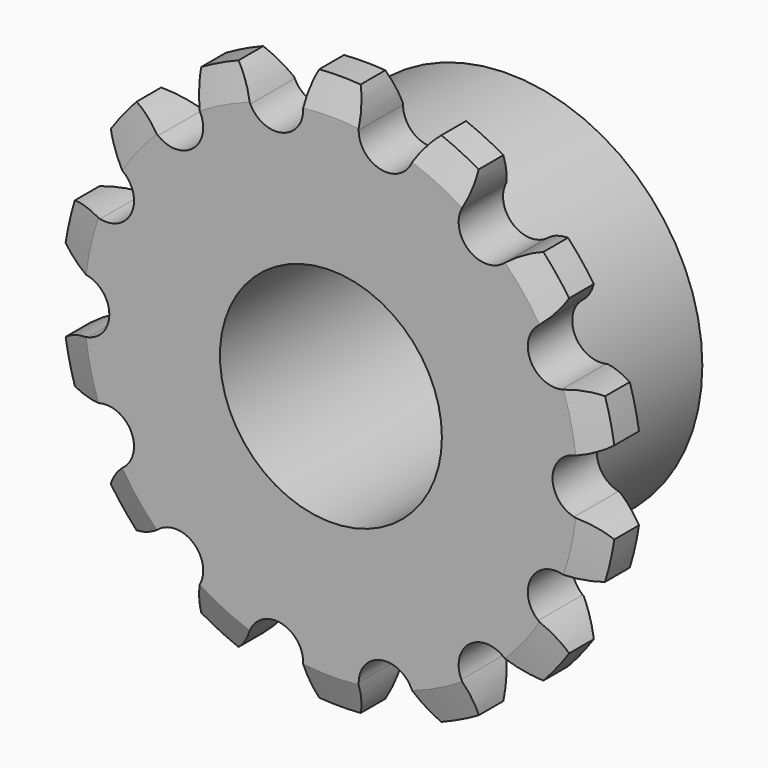
from build123d import *

# Parameters (mm, degrees)
F0_R        = 11.0933204836
F0_R_2      = 6.35
F1_DEPTH    = 3.175
F2_DEPTH    = 9.525
F3_SIZE2    = 1.7951595028
F3_SIZE     = 0.762
F3_2_SIZE2  = 1.7951595028
F3_2_SIZE   = 0.762
F3_3_SIZE2  = 1.7951595028
F3_3_SIZE   = 0.762
F3_4_SIZE2  = 1.7951595028
F3_4_SIZE   = 0.762
F3_5_SIZE2  = 1.7951595028
F3_5_SIZE   = 0.762
F3_6_SIZE2  = 1.7951595028
F3_6_SIZE   = 0.762
F3_7_SIZE2  = 1.7951595028
F3_7_SIZE   = 0.762
F3_8_SIZE2  = 1.7951595028
F3_8_SIZE   = 0.762
F3_9_SIZE2  = 1.7951595028
F3_9_SIZE   = 0.762
F3_10_SIZE2 = 1.7951595028
F3_10_SIZE  = 0.762
F3_11_SIZE2 = 1.7951595028
F3_11_SIZE  = 0.762
F3_12_SIZE2 = 1.7951595028
F3_12_SIZE  = 0.762
F3_13_SIZE2 = 1.7951595028
F3_13_SIZE  = 0.762
F3_14_SIZE2 = 1.7951595028
F3_14_SIZE  = 0.762
F4_SIZE2    = 0.6471390765
F4_SIZE     = 1.778


with BuildPart() as f1:
    # F0 (on Front) → F1 (new body)
    with BuildSketch(Plane.XZ):
        with BuildLine():
            ThreePointArc((4.6052880778, 13.2217934636), (2.8217480173, 12.3628858388), (1.5875, 13.9105838994))
            ThreePointArc((1.5875, 13.9105838994), (1.485331937, 14.8917630302), (1.1832112917, 15.8308444512))
            ThreePointArc((1.1832112917, 15.8308444512), (0, 15.875), (-1.1832112917, 15.8308444512))
            ThreePointArc((-1.1832112917, 15.8308444512), (-1.485331937, 14.8917630302), (-1.5875, 13.9105838994))
            ThreePointArc((-1.5875, 13.9105838994), (-2.8217480173, 12.3628858388), (-4.6052880778, 13.2217934636))
            ThreePointArc((-4.6052880778, 13.2217934636), (-5.1230559918, 14.061476253), (-5.8027094459, 14.7764741426))
            ThreePointArc((-5.8027094459, 14.7764741426), (-6.8879043585, 14.302880778), (-7.9347825219, 13.7497218638))
            ThreePointArc((-7.9347825219, 13.7497218638), (-7.7995316594, 12.7725535037), (-7.4658642334, 11.8442125919))
            ThreePointArc((-7.4658642334, 11.8442125919), (-7.3484542506, 11.5086741387), (-7.3086523112, 11.155422156))
            ThreePointArc((-7.3086523112, 11.155422156), (-8.2073618753, 9.7251340782), (-9.8859423716, 9.9142646776))
            ThreePointArc((-9.8859423716, 9.9142646776), (-10.7167598513, 10.4461416513), (-11.6393324122, 10.7954419084))
            ThreePointArc((-11.6393324122, 10.7954419084), (-12.4115747842, 9.8979006045), (-13.1147727599, 8.9452982319))
            ThreePointArc((-13.1147727599, 8.9452982319), (-12.5689384816, 8.1235831107), (-11.8655224925, 7.4319497208))
            ThreePointArc((-11.8655224925, 7.4319497208), (-11.4250244752, 6.8795826782), (-11.267812553, 6.1907922424))
            ThreePointArc((-11.267812553, 6.1907922424), (-11.8655224925, 4.9496347639), (-13.2085645356, 4.6430941818))
            ThreePointArc((-13.2085645356, 4.6430941818), (-14.1878779899, 4.761820582), (-15.1706428472, 4.6762400069))
            ThreePointArc((-15.1706428472, 4.6762400069), (-15.4769806059, 3.5325198266), (-15.6972214106, 2.3691485783))
            ThreePointArc((-15.6972214106, 2.3691485783), (-14.8489128896, 1.8656374535), (-13.915068501, 1.5476980606))
            ThreePointArc((-13.915068501, 1.5476980606), (-13.0271630052, 0.9897900605), (-12.6808204836, 0))
            ThreePointArc((-12.6808204836, 0), (-13.0271630052, -0.9897900605), (-13.915068501, -1.5476980606))
            ThreePointArc((-13.915068501, -1.5476980606), (-14.8489128896, -1.8656374535), (-15.6972214106, -2.3691485783))
            ThreePointArc((-15.6972214106, -2.3691485783), (-15.4769806059, -3.5325198266), (-15.1706428472, -4.6762400069))
            ThreePointArc((-15.1706428472, -4.6762400069), (-14.1878779899, -4.761820582), (-13.2085645356, -4.6430941818))
            ThreePointArc((-13.2085645356, -4.6430941818), (-11.8655224925, -4.9496347639), (-11.267812553, -6.1907922424))
            ThreePointArc((-11.267812553, -6.1907922424), (-11.4058254842, -6.8382051613), (-11.7958673405, -7.3730494444))
            ThreePointArc((-11.7958673405, -7.3730494444), (-11.8655224925, -7.4319497208), (-11.9384457455, -7.4867519282))
            ThreePointArc((-11.9384457455, -7.4867519282), (-12.5999033157, -8.1559356871), (-13.1170026323, -8.9420281225))
            ThreePointArc((-13.1170026323, -8.9420281225), (-12.4128085812, -9.8963532741), (-11.6393324122, -10.7954419084))
            ThreePointArc((-11.6393324122, -10.7954419084), (-10.7167598513, -10.4461416513), (-9.8859423716, -9.9142646776))
            ThreePointArc((-9.8859423716, -9.9142646776), (-8.2073618753, -9.7251340782), (-7.3086523112, -11.155422156))
            ThreePointArc((-7.3086523112, -11.155422156), (-7.3484542506, -11.5086741387), (-7.4658642334, -11.8442125919))
            ThreePointArc((-7.4658642334, -11.8442125919), (-7.7995316594, -12.7725535037), (-7.9347825219, -13.7497218638))
            ThreePointArc((-7.9347825219, -13.7497218638), (-6.8879043585, -14.302880778), (-5.8027094459, -14.7764741426))
            ThreePointArc((-5.8027094459, -14.7764741426), (-5.1230559918, -14.061476253), (-4.6052880778, -13.2217934636))
            ThreePointArc((-4.6052880778, -13.2217934636), (-2.8217480173, -12.3628858388), (-1.5875, -13.9105838994))
            ThreePointArc((-1.5875, -13.9105838994), (-1.485331937, -14.8917630302), (-1.1832112917, -15.8308444512))
            ThreePointArc((-1.1832112917, -15.8308444512), (0, -15.875), (1.1832112917, -15.8308444512))
            ThreePointArc((1.1832112917, -15.8308444512), (1.485331937, -14.8917630302), (1.5875, -13.9105838994))
            ThreePointArc((1.5875, -13.9105838994), (2.8217480173, -12.3628858388), (4.6052880778, -13.2217934636))
            ThreePointArc((4.6052880778, -13.2217934636), (5.1230559918, -14.061476253), (5.8027094459, -14.7764741426))
            ThreePointArc((5.8027094459, -14.7764741426), (6.8879043585, -14.302880778), (7.9347825219, -13.7497218638))
            ThreePointArc((7.9347825219, -13.7497218638), (7.7995316594, -12.7725535037), (7.4658642334, -11.8442125919))
            ThreePointArc((7.4658642334, -11.8442125919), (7.9063622507, -9.9142646776), (9.8859423716, -9.9142646776))
            ThreePointArc((9.8859423716, -9.9142646776), (10.7167598513, -10.4461416513), (11.6393324122, -10.7954419084))
            ThreePointArc((11.6393324122, -10.7954419084), (12.4115747842, -9.8979006045), (13.1147727599, -8.9452982319))
            ThreePointArc((13.1147727599, -8.9452982319), (12.5689384816, -8.1235831107), (11.8655224925, -7.4319497208))
            ThreePointArc((11.8655224925, -7.4319497208), (11.4250244752, -5.5020018065), (13.2085645356, -4.6430941818))
            ThreePointArc((13.2085645356, -4.6430941818), (14.1878779899, -4.761820582), (15.1706428472, -4.6762400069))
            ThreePointArc((15.1706428472, -4.6762400069), (15.4769806059, -3.5325198266), (15.6972214106, -2.3691485783))
            ThreePointArc((15.6972214106, -2.3691485783), (14.8489128896, -1.8656374535), (13.915068501, -1.5476980606))
            ThreePointArc((13.915068501, -1.5476980606), (12.6808204836, 0), (13.915068501, 1.5476980606))
            ThreePointArc((13.915068501, 1.5476980606), (14.8489128896, 1.8656374535), (15.6972214106, 2.3691485783))
            ThreePointArc((15.6972214106, 2.3691485783), (15.4769806059, 3.5325198266), (15.1706428472, 4.6762400069))
            ThreePointArc((15.1706428472, 4.6762400069), (14.1878779899, 4.761820582), (13.2085645356, 4.6430941818))
            ThreePointArc((13.2085645356, 4.6430941818), (11.4250244752, 5.5020018065), (11.8655224925, 7.4319497208))
            ThreePointArc((11.8655224925, 7.4319497208), (12.5689384816, 8.1235831107), (13.1147727599, 8.9452982319))
            ThreePointArc((13.1147727599, 8.9452982319), (12.4115747842, 9.8979006045), (11.6393324122, 10.7954419084))
            ThreePointArc((11.6393324122, 10.7954419084), (10.7167598513, 10.4461416513), (9.8859423716, 9.9142646776))
            ThreePointArc((9.8859423716, 9.9142646776), (7.9063622507, 9.9142646776), (7.4658642334, 11.8442125919))
            ThreePointArc((7.4658642334, 11.8442125919), (7.7995316594, 12.7725535037), (7.9347825219, 13.7497218638))
            ThreePointArc((7.9347825219, 13.7497218638), (6.8879043585, 14.302880778), (5.8027094459, 14.7764741426))
            ThreePointArc((5.8027094459, 14.7764741426), (5.1230559918, 14.061476253), (4.6052880778, 13.2217934636))
        make_face()
        Circle(F0_R, mode=Mode.SUBTRACT)
        Circle(F0_R)
        Circle(F0_R_2, mode=Mode.SUBTRACT)
    extrude(amount=F1_DEPTH)

    # F0 (on Front) → F2 (join)
    with BuildSketch(Plane.XZ):
        Circle(F0_R)
        Circle(F0_R_2, mode=Mode.SUBTRACT)
    extrude(amount=-F2_DEPTH)

    # F3
    f3_edges = [f1.edges().sort_by_distance(p)[0] for p in [
        (15.476981, 0, 3.53252),
    ]]
    f3_side = f1.faces().sort_by_distance((15.476981, -1.5875, 3.53252))[0]
    chamfer(f3_edges, length=F3_SIZE, length2=F3_SIZE2, reference=f3_side)

    # F3#2
    f3_2_edges = [f1.edges().sort_by_distance(p)[0] for p in [
        (15.476981, 0, -3.53252),
    ]]
    f3_2_side = f1.faces().sort_by_distance((15.476981, -1.5875, -3.53252))[0]
    chamfer(f3_2_edges, length=F3_2_SIZE, length2=F3_2_SIZE2, reference=f3_2_side)

    # F3#3
    f3_3_edges = [f1.edges().sort_by_distance(p)[0] for p in [
        (12.411575, 0, -9.897901),
    ]]
    f3_3_side = f1.faces().sort_by_distance((12.411575, -1.5875, -9.897901))[0]
    chamfer(f3_3_edges, length=F3_3_SIZE, length2=F3_3_SIZE2, reference=f3_3_side)

    # F3#4
    f3_4_edges = [f1.edges().sort_by_distance(p)[0] for p in [
        (6.887904, 0, -14.302881),
    ]]
    f3_4_side = f1.faces().sort_by_distance((6.887904, -1.5875, -14.302881))[0]
    chamfer(f3_4_edges, length=F3_4_SIZE, length2=F3_4_SIZE2, reference=f3_4_side)

    # F3#5
    f3_5_edges = [f1.edges().sort_by_distance(p)[0] for p in [
        (0, 0, -15.875),
    ]]
    f3_5_side = f1.faces().sort_by_distance((0, -1.5875, -15.875))[0]
    chamfer(f3_5_edges, length=F3_5_SIZE, length2=F3_5_SIZE2, reference=f3_5_side)

    # F3#6
    f3_6_edges = [f1.edges().sort_by_distance(p)[0] for p in [
        (-6.887904, 0, -14.302881),
    ]]
    f3_6_side = f1.faces().sort_by_distance((-6.887904, -1.5875, -14.302881))[0]
    chamfer(f3_6_edges, length=F3_6_SIZE, length2=F3_6_SIZE2, reference=f3_6_side)

    # F3#7
    f3_7_edges = [f1.edges().sort_by_distance(p)[0] for p in [
        (-12.412809, 0, -9.896353),
    ]]
    f3_7_side = f1.faces().sort_by_distance((-12.412809, -1.5875, -9.896353))[0]
    chamfer(f3_7_edges, length=F3_7_SIZE, length2=F3_7_SIZE2, reference=f3_7_side)

    # F3#8
    f3_8_edges = [f1.edges().sort_by_distance(p)[0] for p in [
        (-15.476981, 0, -3.53252),
    ]]
    f3_8_side = f1.faces().sort_by_distance((-15.476981, -1.5875, -3.53252))[0]
    chamfer(f3_8_edges, length=F3_8_SIZE, length2=F3_8_SIZE2, reference=f3_8_side)

    # F3#9
    f3_9_edges = [f1.edges().sort_by_distance(p)[0] for p in [
        (-15.476981, 0, 3.53252),
    ]]
    f3_9_side = f1.faces().sort_by_distance((-15.476981, -1.5875, 3.53252))[0]
    chamfer(f3_9_edges, length=F3_9_SIZE, length2=F3_9_SIZE2, reference=f3_9_side)

    # F3#10
    f3_10_edges = [f1.edges().sort_by_distance(p)[0] for p in [
        (-12.411575, 0, 9.897901),
    ]]
    f3_10_side = f1.faces().sort_by_distance((-12.411575, -1.5875, 9.897901))[0]
    chamfer(f3_10_edges, length=F3_10_SIZE, length2=F3_10_SIZE2, reference=f3_10_side)

    # F3#11
    f3_11_edges = [f1.edges().sort_by_distance(p)[0] for p in [
        (-6.887904, 0, 14.302881),
    ]]
    f3_11_side = f1.faces().sort_by_distance((-6.887904, -1.5875, 14.302881))[0]
    chamfer(f3_11_edges, length=F3_11_SIZE, length2=F3_11_SIZE2, reference=f3_11_side)

    # F3#12
    f3_12_edges = [f1.edges().sort_by_distance(p)[0] for p in [
        (0, 0, 15.875),
    ]]
    f3_12_side = f1.faces().sort_by_distance((0, -1.5875, 15.875))[0]
    chamfer(f3_12_edges, length=F3_12_SIZE, length2=F3_12_SIZE2, reference=f3_12_side)

    # F3#13
    f3_13_edges = [f1.edges().sort_by_distance(p)[0] for p in [
        (6.887904, 0, 14.302881),
    ]]
    f3_13_side = f1.faces().sort_by_distance((6.887904, -1.5875, 14.302881))[0]
    chamfer(f3_13_edges, length=F3_13_SIZE, length2=F3_13_SIZE2, reference=f3_13_side)

    # F3#14
    f3_14_edges = [f1.edges().sort_by_distance(p)[0] for p in [
        (12.411575, 0, 9.897901),
    ]]
    f3_14_side = f1.faces().sort_by_distance((12.411575, -1.5875, 9.897901))[0]
    chamfer(f3_14_edges, length=F3_14_SIZE, length2=F3_14_SIZE2, reference=f3_14_side)

    # F4
    f4_edges = [f1.edges().sort_by_distance(p)[0] for p in [
        (0, -3.175, 15.875),
        (6.887904, -3.175, 14.302881),
        (12.411575, -3.175, 9.897901),
        (15.476981, -3.175, 3.53252),
        (15.476981, -3.175, -3.53252),
        (12.411575, -3.175, -9.897901),
        (6.887904, -3.175, -14.302881),
        (0, -3.175, -15.875),
        (-6.887904, -3.175, -14.302881),
        (-12.412809, -3.175, -9.896353),
        (-15.476981, -3.175, -3.53252),
        (-15.476981, -3.175, 3.53252),
        (-12.411575, -3.175, 9.897901),
        (-6.887904, -3.175, 14.302881),
    ]]
    f4_side = f1.faces().sort_by_distance((-10.917259, -3.175, 10.047184))[0]
    chamfer(f4_edges, length=F4_SIZE, length2=F4_SIZE2, reference=f4_side)


solid = f1.part
